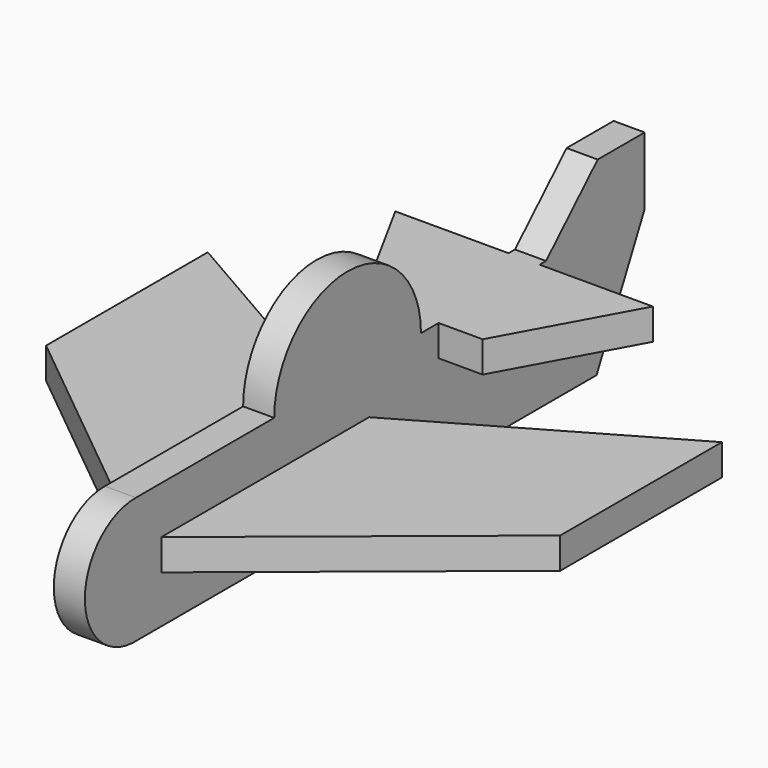
from build123d import *

# Parameters (mm, degrees)
PAD_DEPTH    = 5
PAD001_DEPTH = 5
PAD002_DEPTH = 10


with BuildPart() as part:
    # Sketch → Pad (new body, symmetric)
    with BuildSketch(Plane.YZ):
        with BuildLine():
            Line((79.985253, 20.323011), (100.763572, 40.6142))
            Line((100.763572, 40.6142), (119.662178, 40.6142))
            Line((119.662178, 40.6142), (119.662178, 18.903042))
            Line((119.662178, 18.903042), (100.307594, -20.290001))
            Line((100.307594, -20.290001), (-84.034331, -20.290001))
            ThreePointArc((-85.010115, 20.323011), (-105.527296, -0.488171), (-84.034331, -20.290001))
            Line((-85.010115, 20.323011), (-29.368151, 20.323011))
            ThreePointArc((29.663353, 20.323011), (0.147601, 49.838763), (-29.368151, 20.323011))
            Line((29.663353, 20.323011), (79.985253, 20.323011))
        make_face()
    extrude(amount=PAD_DEPTH, both=True)

    # Sketch001 → Pad001 (join, symmetric)
    with BuildSketch(Plane.XY):
        Polygon((-82.730919, -11.478452), (-82.730919, 53.577414), (0, 5.912332), (82.730919, 53.577414), (82.730919, -11.478452), (0, -78.832466), align=None)
    extrude(amount=PAD001_DEPTH, both=True)

    # Sketch002 (on Face1 of Pad001) → Pad002 (join)
    with BuildSketch(Plane(origin=(0, 0, 20.323011), x_dir=(0, -1, 0), z_dir=(0, 0, 1))):
        Polygon((-77.402542, 41.444447), (-77.402542, -41.444447), (-36.757927, -19.18667), (-36.757927, 19.18667), align=None)
    extrude(amount=-PAD002_DEPTH)


solid = part.part
